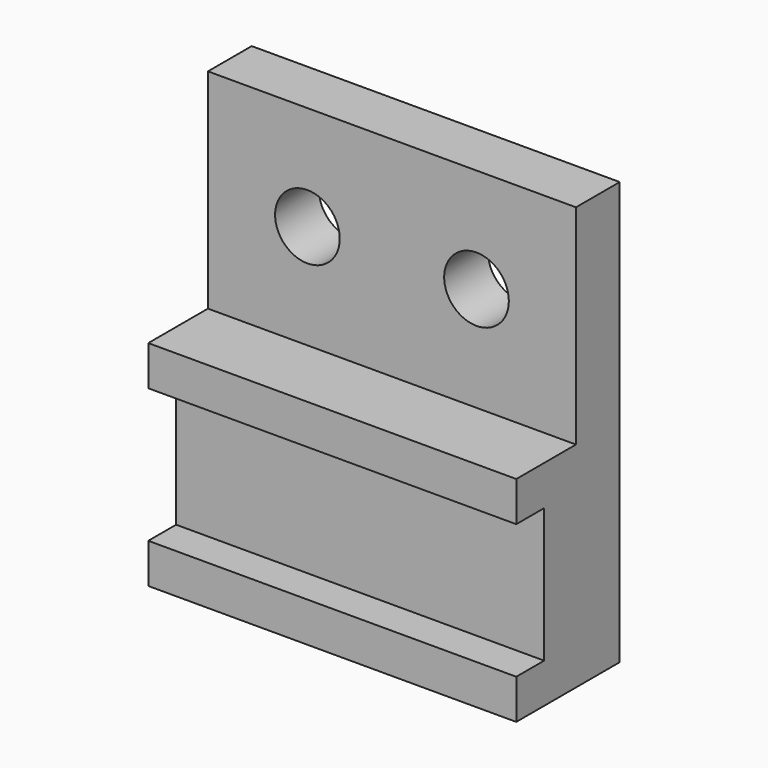
from build123d import *

# Parameters (mm, degrees)
F0_W     = 117.475
F0_H     = 68.2625
F1_DEPTH = 41.275
F2_W     = 117.475
F2_H     = 42.8625
F3_DEPTH = 11.1125
F4_W     = 117.475
F4_H     = 17.4625
F5_DEPTH = 66.675
F6_R     = 10.31875
F7_DEPTH = 101.6


with BuildPart() as f1:
    # F0 (on Front) → F1 (new body)
    with BuildSketch(Plane.XZ):
        with Locations((1.530804, -23.5361)):
            Rectangle(F0_W, F0_H)
    extrude(amount=F1_DEPTH)

    # F2 (on face) → F3 (cut)
    with BuildSketch(Plane.XZ.offset(41.275)):
        with Locations((1.530804, -23.5361)):
            Rectangle(F2_W, F2_H)
    extrude(amount=-F3_DEPTH, mode=Mode.SUBTRACT)

    # F4 (on face) → F5 (join)
    with BuildSketch(Plane.XY.offset(10.59515)):
        with Locations((1.530804, -8.73125)):
            Rectangle(F4_W, F4_H)
    extrude(amount=F5_DEPTH)

    # F6 (on face) → F7 (cut)
    with BuildSketch(Plane.XZ.offset(17.4625)):
        with Locations((28.518304, 43.93265)):
            Circle(F6_R)
        with Locations((-25.456696, 43.93265)):
            Circle(F6_R)
    extrude(amount=-F7_DEPTH, mode=Mode.SUBTRACT)


solid = f1.part
